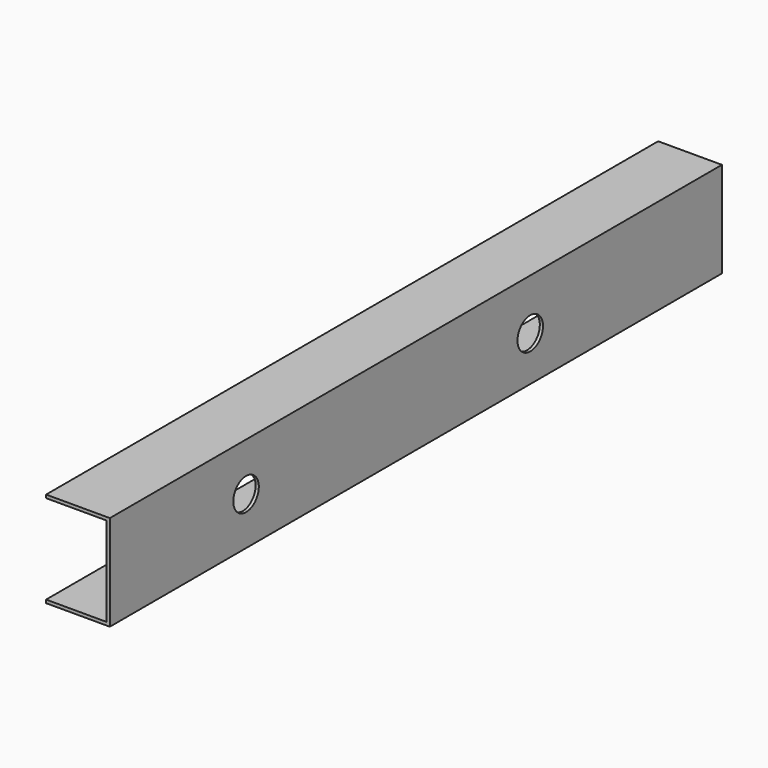
from build123d import *

# Parameters (mm, degrees)
PAD_DEPTH    = 1200
SKETCH001_R  = 25
POCKET_DEPTH = 11


with BuildPart() as part:
    # Sketch → Pad (new body)
    with BuildSketch(Plane.XZ):
        Polygon((-71.120202, 50.807465), (23.879798, 50.807465), (23.879798, -89.192535), (-71.120202, -89.192535), (-71.120202, -94.192535), (28.879798, -94.192535), (28.879798, 55.807465), (-71.120202, 55.807465), align=None)
    extrude(amount=PAD_DEPTH)

    # Sketch001 (on DatumPlane) → Pocket (cut)
    with BuildSketch(Plane(origin=(28.879798, 0, 0), x_dir=(0, 0, 1), z_dir=(1, 0, 0))):
        with Locations((-19.580029, 932.952332)):
            Circle(SKETCH001_R)
        with Locations((-24.085371, 375.785522)):
            Circle(SKETCH001_R)
    extrude(amount=-POCKET_DEPTH, mode=Mode.SUBTRACT)


solid = part.part
